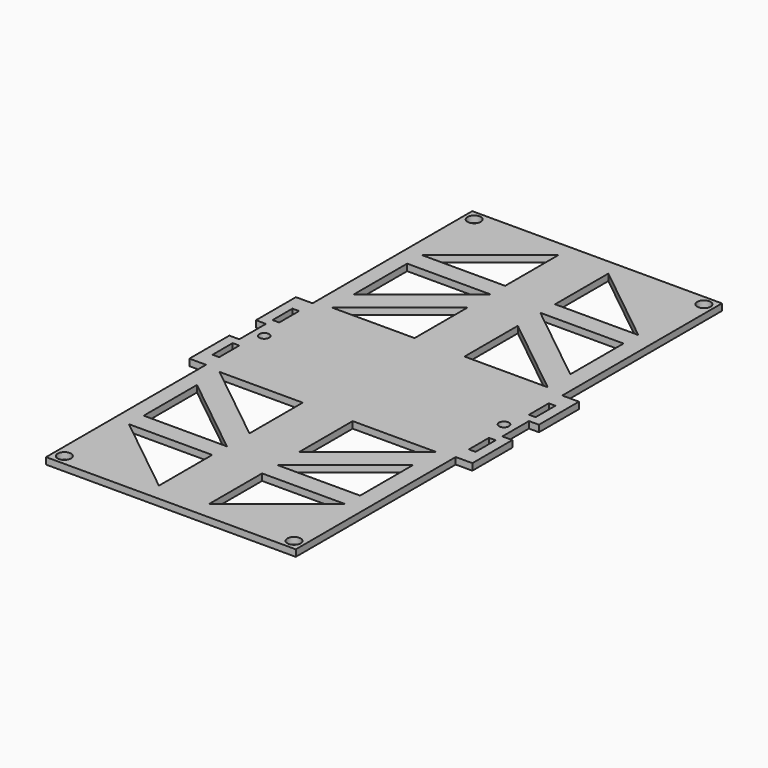
from build123d import *

# Parameters (mm, degrees)
F0_R     = 2
F0_R_2   = 1.5
F0_W     = 2
F0_H     = 5.0564210489
F0_H_2   = 4.9435789511
F1_DEPTH = 2


with BuildPart() as f1:
    # F0 (on Top) → F1 (new body)
    with BuildSketch(Plane.XY):
        Polygon((37.5, 79.9508376047), (-37.5, 79.9508376047), (-37.5, 20), (-37.5, 14.9435789511), (-37.5, 7.5), (-37.5, 0), (-37.5, -7.5), (-37.5, -15.0564210489), (-37.5, -20), (-37.5, -80.0491623953), (37.5, -80.0491623953), (37.5, -20), (37.5, -15.0564210489), (37.5, -7.5), (37.5, 0), (37.5, 7.5), (37.5, 14.9435789511), (37.5, 20), align=None)
        with Locations((-34.5, -76.9508376047)):
            Circle(F0_R, mode=Mode.SUBTRACT)
        Polygon((-32.7663309872, -54.8594370484), (-7.7663309872, -54.8594370484), (-7.7663309872, -74.8594370484), align=None, mode=Mode.SUBTRACT)
        Polygon((-32.7663309872, -49.3169614673), (-32.7663309872, -29.3169614673), (-7.7663309872, -49.3169614673), align=None, mode=Mode.SUBTRACT)
        Polygon((-32.7663309872, -20.8594370484), (-7.7663309872, -20.8594370484), (-7.7663309872, -40.8594370484), align=None, mode=Mode.SUBTRACT)
        Polygon((7.2336690128, -74.8594370484), (7.2336690128, -54.8594370484), (32.2336690128, -54.8594370484), align=None, mode=Mode.SUBTRACT)
        with Locations((34.5, -76.9508376047)):
            Circle(F0_R, mode=Mode.SUBTRACT)
        Polygon((32.2336690128, -49.3169614673), (7.2336690128, -49.3169614673), (32.2336690128, -29.3169614673), align=None, mode=Mode.SUBTRACT)
        Polygon((7.2336690128, -40.8594370484), (7.2336690128, -20.8594370484), (32.2336690128, -20.8594370484), align=None, mode=Mode.SUBTRACT)
        with BuildLine():
            ThreePointArc((-34.5, 0), (-36, -1.5), (-37.5, 0))
            ThreePointArc((-37.5, 0), (-36, 1.5), (-34.5, 0))
        make_face(mode=Mode.SUBTRACT)
        Polygon((-7.7663309872, 41.1405629516), (-7.7663309872, 21.1405629516), (-32.7663309872, 21.1405629516), align=None, mode=Mode.SUBTRACT)
        Polygon((-7.7663309872, 49.5980873704), (-32.7663309872, 29.5980873704), (-32.7663309872, 49.5980873704), align=None, mode=Mode.SUBTRACT)
        with Locations((-34.5, 76.9508376047)):
            Circle(F0_R, mode=Mode.SUBTRACT)
        Polygon((-7.7663309872, 55.1405629516), (-32.7663309872, 55.1405629516), (-7.7663309872, 75.1405629516), align=None, mode=Mode.SUBTRACT)
        Polygon((32.2336690128, 21.1405629516), (7.2336690128, 21.1405629516), (7.2336690128, 41.1405629516), align=None, mode=Mode.SUBTRACT)
        Polygon((32.2336690128, 49.5980873704), (32.2336690128, 29.5980873704), (7.2336690128, 49.5980873704), align=None, mode=Mode.SUBTRACT)
        with Locations((36, 0)):
            Circle(F0_R_2, mode=Mode.SUBTRACT)
        Polygon((32.2336690128, 55.1405629516), (7.2336690128, 55.1405629516), (7.2336690128, 75.1405629516), align=None, mode=Mode.SUBTRACT)
        with Locations((34.5, 76.9508376047)):
            Circle(F0_R, mode=Mode.SUBTRACT)
        Polygon((39.5, 7.5), (37.5, 7.5), (37.5, 0), (37.5, -7.5), (39.5, -7.5), (39.5, -5), (39.5, 5), align=None)
        Polygon((-37.5, 0), (-37.5, 7.5), (-39.5, 7.5), (-39.5, 5), (-39.5, -5), (-39.5, -7.5), (-37.5, -7.5), align=None)
        with Locations((38.5, 17.4717894755)):
            Rectangle(F0_W, F0_H)
        Polygon((39.5, 7.5), (37.5, 7.5), (37.5, 0), (37.5, -7.5), (39.5, -7.5), (39.5, -5), (39.5, 5), align=None)
        with Locations((38.5, -17.5282105245)):
            Rectangle(F0_W, F0_H_2)
        with Locations((-38.5, -17.5282105245)):
            Rectangle(F0_W, F0_H_2)
        with Locations((-38.5, 17.4717894755)):
            Rectangle(F0_W, F0_H)
        Polygon((-39.5, 14.9435789511), (-39.5, 20), (-42.5, 20), (-42.5, 5), (-39.5, 5), (-39.5, 7.5), align=None)
        Polygon((42.5, 20), (39.5, 20), (39.5, 14.9435789511), (39.5, 7.5), (39.5, 5), (42.5, 5), align=None)
        Polygon((42.5, -20), (42.5, -5), (39.5, -5), (39.5, -7.5), (39.5, -15.0564210489), (39.5, -20), align=None)
        Polygon((-39.5, -5), (-42.5, -5), (-42.5, -20), (-39.5, -20), (-39.5, -15.0564210489), (-39.5, -7.5), align=None)
    extrude(amount=F1_DEPTH)


solid = f1.part
